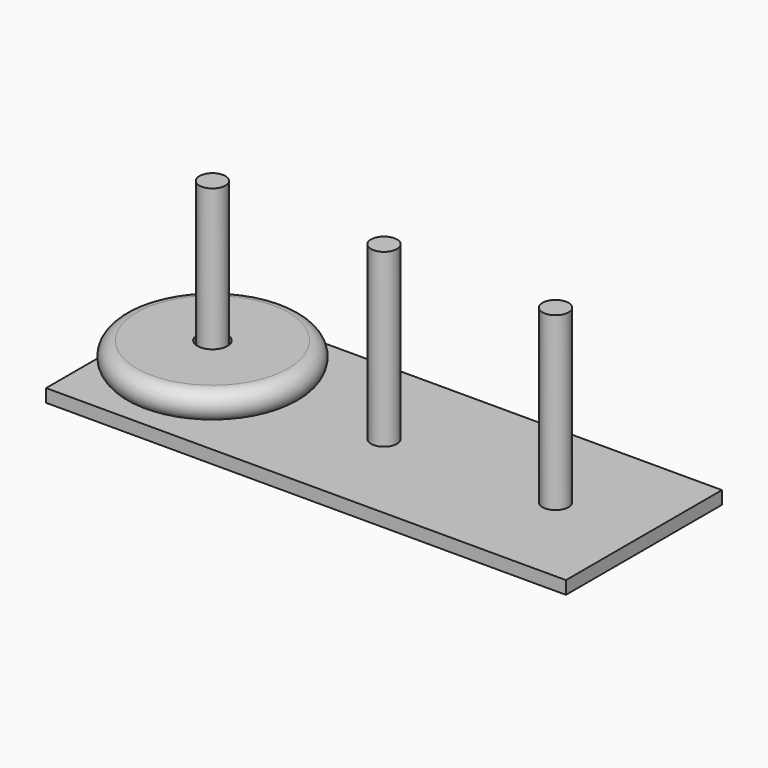
from build123d import *

# Parameters (mm, degrees)
F0_W     = 200
F0_H     = 75
F1_DEPTH = 5
F2_R     = 5
F3_DEPTH = 66
F5_W     = 23.3601592481
F5_H     = 10.9159611166


with BuildPart() as f1:
    # F0 (on Top) → F1 (new body)
    with BuildSketch(Plane.XY):
        Rectangle(F0_W, F0_H)
    extrude(amount=F1_DEPTH)

    # F2 (on face) → F3 (join)
    with BuildSketch(Plane.XY.offset(5)):
        Circle(F2_R)
        with Locations((-66, 0)):
            Circle(F2_R)
        with Locations((66, 0)):
            Circle(F2_R)
    extrude(amount=F3_DEPTH)


with BuildPart() as f6:
    # F5 (on offset) → F6 (revolve)
    with BuildSketch(Plane.XZ):
        with Locations((-48.5244300216, 11.4684421569)):
            Rectangle(F5_W, F5_H)
        with BuildLine():
            Line((-36.8443503976, 16.9264227152), (-36.8443503976, 6.0104615986))
            ThreePointArc((-36.8443503976, 6.0104615986), (-31.3863698393, 11.4684421569), (-36.8443503976, 16.9264227152))
        make_face()
    revolve(axis=Axis((-66, 0, 5), (0, 0, -1)))


solid = Compound([f1.part, f6.part])
